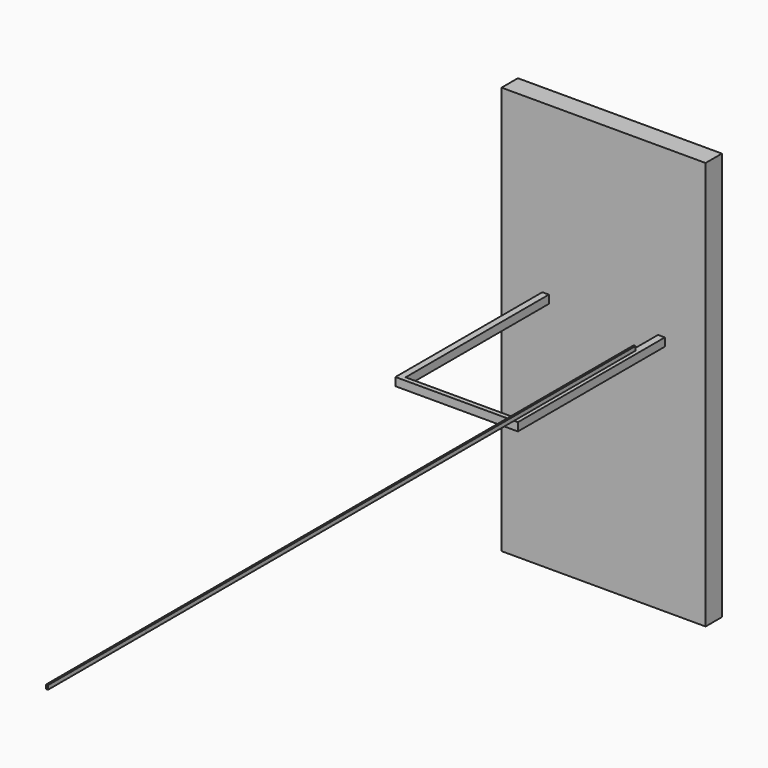
from build123d import *

# Parameters (mm, degrees)
F0_W      = 50
F0_H      = 100
F1_DEPTH  = 5
F2_W      = 30
F2_H      = 2
F3_DEPTH  = 45
F5_DEPTH  = 41
F6_W      = 0.475269
F6_H      = 150
F7_DEPTH  = 1
F7_FACE_W = 0.47527
F7_FACE_H = 1
F8_DEPTH  = 30


with BuildPart() as f1:
    # F0 (on Front) → F1 (new body)
    with BuildSketch(Plane.XZ):
        with Locations((-10.973271, -9.118421)):
            Rectangle(F0_W, F0_H)
    extrude(amount=F1_DEPTH)

    # F2 (on face) → F3 (join)
    with BuildSketch(Plane.XZ.offset(5)):
        with Locations((-10.973271, -1)):
            Rectangle(F2_W, F2_H)
    extrude(amount=F3_DEPTH)

    # F4 (on face) → F5 (cut)
    with BuildSketch(Plane(origin=(0, 0, -2), x_dir=(1, 0, 0), z_dir=(0, 0, -1))):
        Polygon((-24.382181, 5), (-21.973271, 5), (0, 5), (2.364369, 5), (2.364369, 48.887726), (-24.382181, 48.887726), align=None)
    extrude(amount=-F5_DEPTH, mode=Mode.SUBTRACT)

    # F6 (on face) → F7 (join)
    with BuildSketch(Plane.XY):
        with Locations((2.854673, -87.759547)):
            Rectangle(F6_W, F6_H)
        with Locations((2.854673, -87.759547)):
            Rectangle(F6_W, F6_H)
    extrude(amount=F7_DEPTH)

    # F7_face (on face) → F8 (join)
    with BuildSketch(Plane(origin=(2.854674, -162.759547, 0.5), x_dir=(1, 0, 0), z_dir=(0, -1, 0))):
        Rectangle(F7_FACE_W, F7_FACE_H)
    extrude(amount=F8_DEPTH)


solid = f1.part
